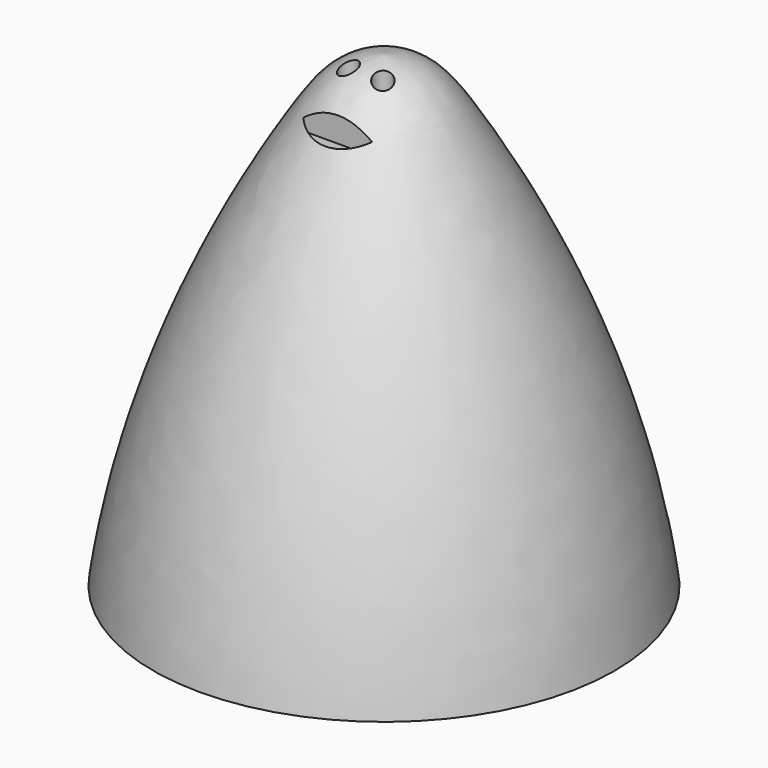
from build123d import *

# Parameters (mm, degrees)
F4_D     = 2.032
F4_DEPTH = 3.81
F4_START = 13.0290755
F4_TIP   = 0.6104743889
F5_DEPTH = 17.78


with BuildPart() as f1:
    # F0 (on Front) → F1 (revolve)
    with BuildSketch(Plane.XZ):
        with BuildLine():
            Line((0, 51.8371127546), (0, 0))
            Line((0, 0), (25.6147161126, 0))
            add(Edge.make_bspline(
                [(25.6147161126, 0), (22.8049212909, 20.5093036404), (9.6490421389, 44.5611330733), (4.4700330506, 51.3505992855), (0, 51.8371127546)],
                knots=[0, 0, 0, 0, 0.6778847742, 1, 1, 1, 1], degree=3))
        make_face()
    revolve(axis=Axis((0, 0, 25.9185563773), (0, 0, 1)))

    # F4
    # its depths count from where the whole tool has entered the part; down to there all is cleared
    with Locations(Plane.XY.offset(63.5)):
        with Locations((-1.905, -2.54), (1.905, -2.54)):
            Hole(F4_D / 2, depth=F4_START)
    with Locations(Plane.XY.offset(63.5).offset(-F4_START)):
        with Locations((-1.905, -2.54), (1.905, -2.54)):
            Hole(F4_D / 2, depth=F4_DEPTH)
            with Locations((0, 0, -(F4_DEPTH + F4_TIP / 2))):  # 118° drill point
                Cone(0, F4_D / 2, F4_TIP, mode=Mode.SUBTRACT)

    # F3 (on offset) → F5 (cut)
    with BuildSketch(Plane.XY.offset(63.5)):
        with BuildLine():
            Line((3.7562806858, -6.35), (-3.8637193142, -6.35))
            ThreePointArc((-3.8637193142, -6.35), (-0.0537193142, -8.035230032), (3.7562806858, -6.35))
        make_face()
    extrude(amount=-F5_DEPTH, mode=Mode.SUBTRACT)


solid = f1.part
